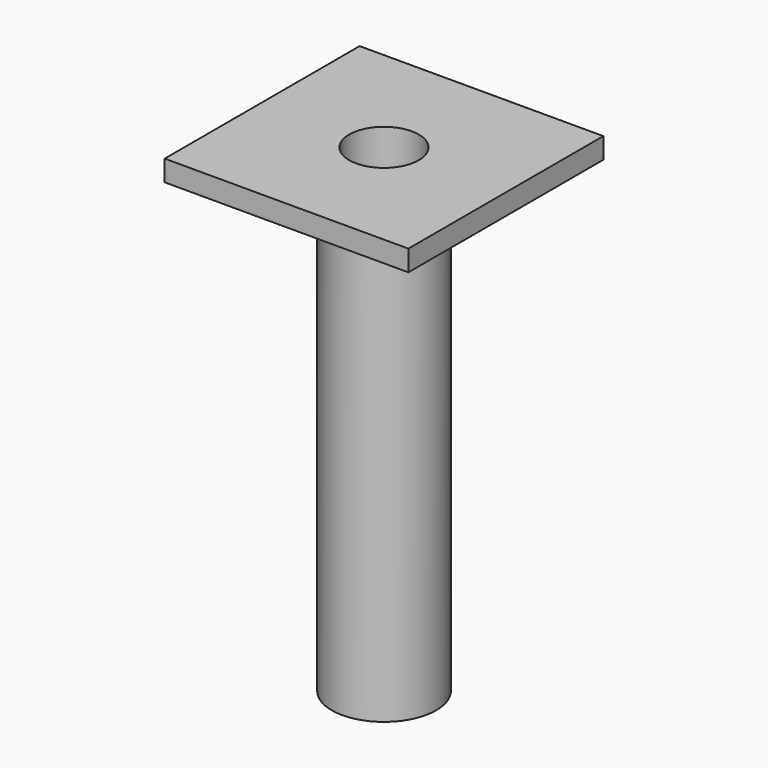
from build123d import *

# Parameters (mm, degrees)
F0_W     = 140
F0_H     = 140
F1_DEPTH = 12
F2_R     = 30
F3_DEPTH = 275
F4_R     = 20
F5_DEPTH = 275.001


with BuildPart() as f1:
    # F0 (on Top) → F1 (new body)
    with BuildSketch(Plane.XY):
        Rectangle(F0_W, F0_H)
    extrude(amount=-F1_DEPTH)

    # F2 (on face) → F3 (join)
    with BuildSketch(Plane.XY):
        Circle(F2_R)
    extrude(amount=-F3_DEPTH)

    # F4 (on face) → F5 (cut, through all)
    with BuildSketch(Plane(origin=(0, 0, -275), x_dir=(1, 0, 0), z_dir=(0, 0, -1))):
        Circle(F4_R)
    extrude(amount=-F5_DEPTH, mode=Mode.SUBTRACT)


solid = f1.part
